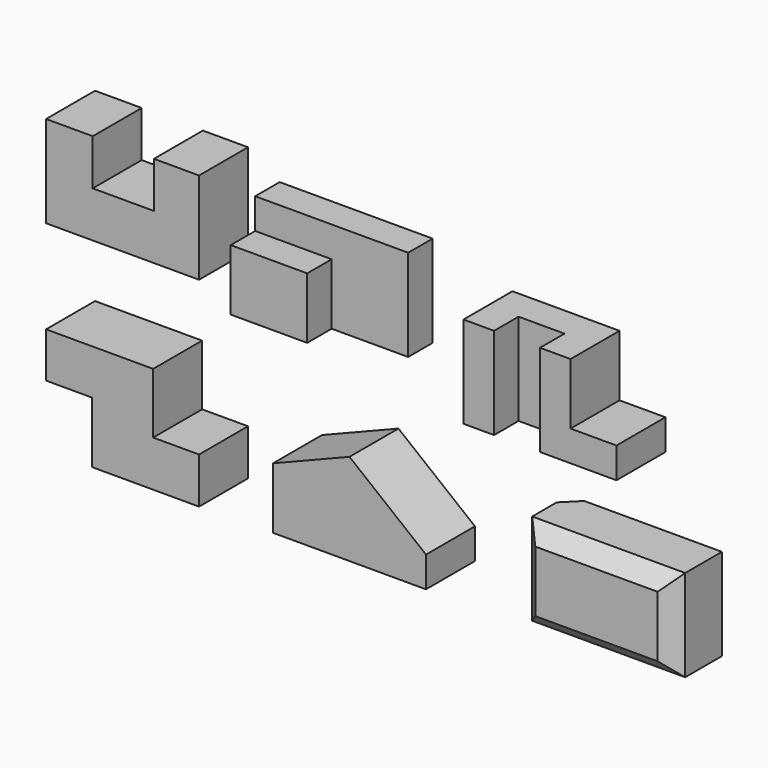
from build123d import *

# Parameters (mm, degrees)
F1_DEPTH  = 101.6
F2_W      = 254
F2_H      = 152.4
F3_DEPTH  = 50.8
F4_W      = 127
F4_H      = 101.6
F5_DEPTH  = 50.8
F7_DEPTH  = 101.6
F8_W      = 76.2
F8_H      = 50.8
F9_DEPTH  = 152.4
F11_DEPTH = 101.6
F13_DEPTH = 101.6
F14_W     = 254
F14_H     = 152.4
F15_DEPTH = 101.6
F16_SIZE  = 25.4


with BuildPart() as f1:
    # F0 (on Front) → F1 (new body)
    with BuildSketch(Plane.XZ):
        Polygon((0, 152.4), (0, 0), (254, 0), (254, 152.4), (179.060987, 152.4), (179.060987, 76.2), (77.460987, 76.2), (77.460987, 152.4), align=None)
    extrude(amount=-F1_DEPTH)


with BuildPart() as f3:
    # F2 (on Front) → F3 (new body)
    with BuildSketch(Plane.XZ):
        with Locations((474.188869, 76.2)):
            Rectangle(F2_W, F2_H)
    extrude(amount=-F3_DEPTH)

    # F4 (on face) → F5 (join)
    with BuildSketch(Plane.XZ):
        with Locations((410.688869, 50.8)):
            Rectangle(F4_W, F4_H)
    extrude(amount=F5_DEPTH)


with BuildPart() as f7:
    # F6 (on Front) → F7 (new body)
    with BuildSketch(Plane.XZ):
        Polygon((774.305682, 152.4), (774.305682, 0), (1028.305682, 0), (1028.305682, 50.8), (952.105682, 50.8), (952.105682, 152.4), align=None)
    extrude(amount=F7_DEPTH)

    # F8 (on face) → F9 (cut)
    with BuildSketch(Plane.XY.offset(152.4)):
        with Locations((863.205682, -76.2)):
            Rectangle(F8_W, F8_H)
    extrude(amount=-F9_DEPTH, mode=Mode.SUBTRACT)


with BuildPart() as f11:
    # F10 (on Front) → F11 (new body)
    with BuildSketch(Plane.XZ):
        Polygon((177.8, -155.036526), (0, -155.036526), (0, -230.036877), (76.2, -230.036877), (76.2, -331.636877), (254, -331.636877), (254, -255.436877), (177.8, -255.436877), align=None)
    extrude(amount=-F11_DEPTH)


with BuildPart() as f13:
    # F12 (on Front) → F13 (new body)
    with BuildSketch(Plane.XZ):
        Polygon((585.066763, -109.82632), (458.066763, -160.62632), (458.066763, -262.22632), (712.066763, -262.22632), (712.066763, -211.42632), align=None)
    extrude(amount=F13_DEPTH)


with BuildPart() as f15:
    # F14 (on Front) → F15 (new body)
    with BuildSketch(Plane.XZ):
        with Locations((995.119065, -191.550298)):
            Rectangle(F14_W, F14_H)
    extrude(amount=F15_DEPTH)

    # F16
    f16_edges = [f15.edges().sort_by_distance(p)[0] for p in [
        (868.119065, 0, -191.550298),
        (995.119065, -101.6, -115.350298),
        (1122.119065, -101.6, -191.550298),
        (995.119065, -101.6, -267.750298),
        (868.119065, -101.6, -191.550298),
    ]]
    chamfer(f16_edges, length=F16_SIZE)


solid = Compound([f1.part, f3.part, f7.part, f11.part, f13.part, f15.part])
